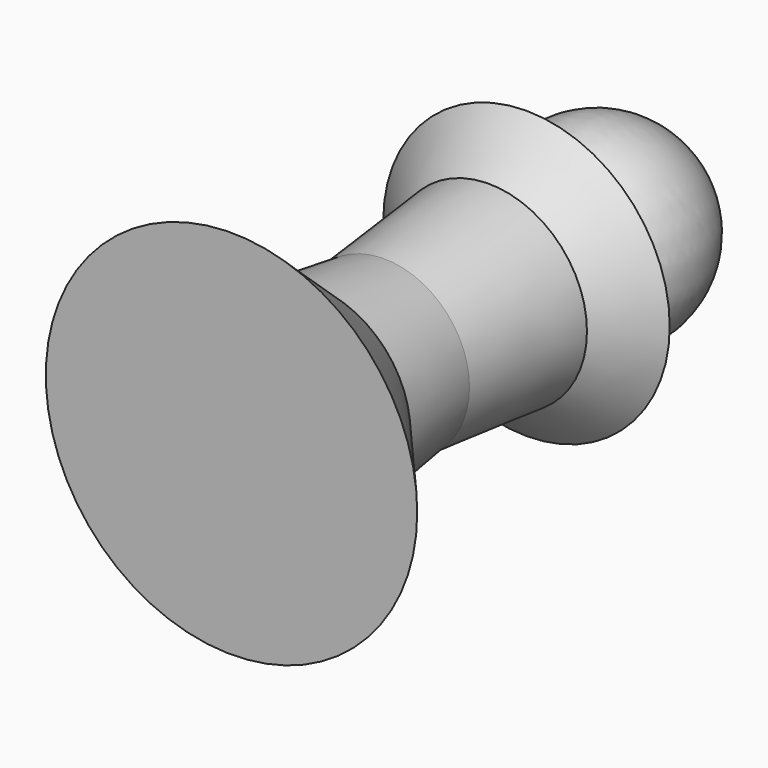
from build123d import *


with BuildPart() as f1:
    # F0 (on Top) → F1 (revolve)
    with BuildSketch(Plane.XY):
        with BuildLine():
            Line((19.801566, 19.710314), (8.794766, 19.710314))
            ThreePointArc((8.794766, 19.710314), (19.509181, 40.59558), (2.712914, 56.993095))
            ThreePointArc((2.712914, 56.993095), (1.987907, 59.03571), (0, 59.899501))
            Line((0, 59.899501), (0, 19.710314))
            Line((0, 19.710314), (0, -34.310546))
            Line((0, -34.310546), (0, -54.750871))
            Line((0, -54.750871), (37.504349, -54.750871))
            Line((37.504349, -54.750871), (19.801566, -34.310546))
            Line((19.801566, -34.310546), (17.246526, -16.242757))
            Line((17.246526, -16.242757), (19.801566, 10.220162))
            Line((19.801566, 10.220162), (28.926708, 19.710314))
            Line((28.926708, 19.710314), (19.801566, 19.710314))
        make_face()
    revolve(axis=Axis((0, 0.273753, 0), (0, -1, 0)))


solid = f1.part
